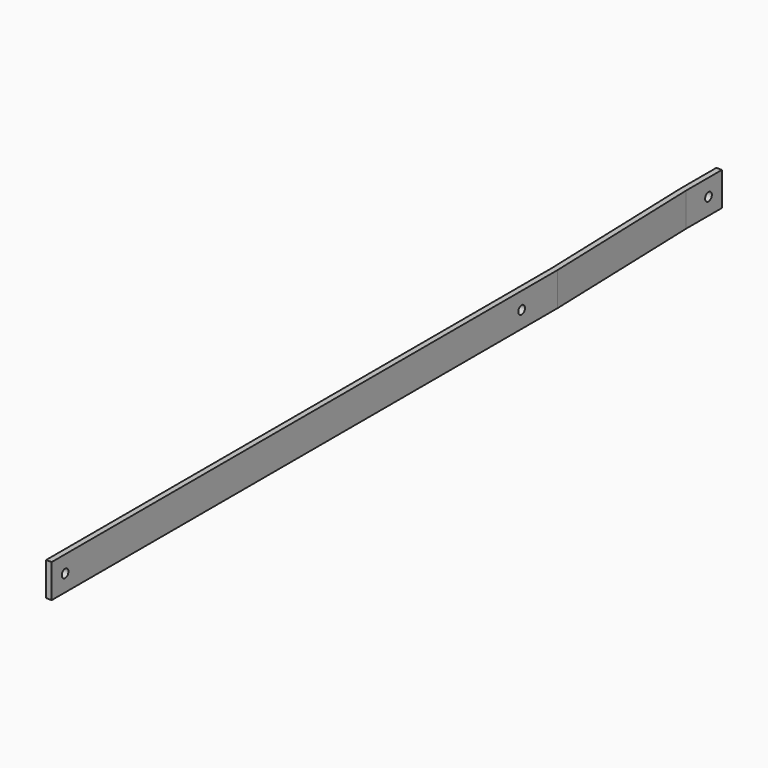
from build123d import *

# Parameters (mm, degrees)
F1_DEPTH = 19.05
F2_R     = 2.38125
F3_DEPTH = 6.35


with BuildPart() as f1:
    # F0 (on Top) → F1 (new body)
    with BuildSketch(Plane.XY):
        Polygon((-1.5875, 0), (0, 0), (0, 358.775), (-3.175, 454.025), (-3.175, 479.425), (-4.7625, 479.425), (-4.7625, 453.998549), (-1.5875, 358.748549), align=None)
        Polygon((0, 358.775), (0, 0), (1.5875, 0), (1.5875, 358.801451), (-1.5875, 454.051451), (-1.5875, 479.425), (-3.175, 479.425), (-3.175, 454.025), align=None)
    extrude(amount=F1_DEPTH)

    # F2 (on face) → F3 (cut)
    with BuildSketch(Plane.YZ.offset(1.5875)):
        with Locations((9.525, 9.525)):
            Circle(F2_R)
        with Locations((469.9, 9.525)):
            Circle(F2_R)
        with Locations((333.375, 9.525)):
            Circle(F2_R)
    extrude(amount=-F3_DEPTH, mode=Mode.SUBTRACT)


solid = f1.part
